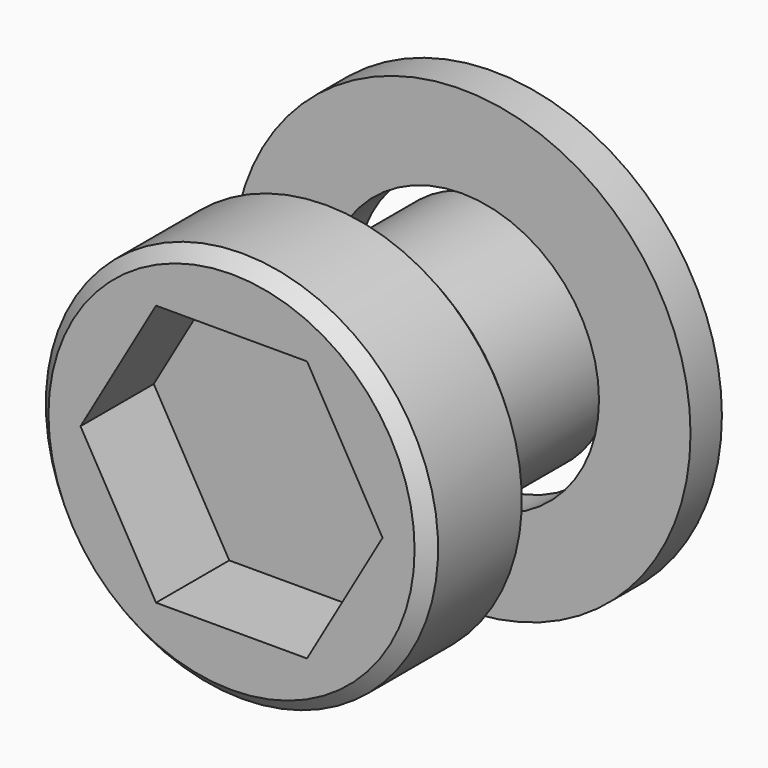
from build123d import *

# Parameters (mm, degrees)
F0_R     = 1.75
F0_R_2   = 1.05
F1_DEPTH = 0.3
F5_DEPTH = 0.7
F6_SIZE  = 0.1


with BuildPart() as f1:
    # F0 (on Front) → F1 (new body)
    with BuildSketch(Plane.XZ):
        Circle(F0_R)
        Circle(F0_R_2, mode=Mode.SUBTRACT)
    extrude(amount=F1_DEPTH)


with BuildPart() as f3:
    # F2 (on Right) → F3 (revolve)
    with BuildSketch(Plane.YZ):
        Polygon((0, -0.9), (0, 0), (-2.5, 0), (-2.5, -1.5), (-1.5, -1.5), (-1.5, -0.9), align=None)
    revolve(axis=Axis((0, -0.931411, 0), (0, 1, 0)))

    # F4 (on face) → F5 (cut)
    with BuildSketch(Plane.XZ.offset(2.5)):
        Polygon((1.154701, 0), (0.57735, 1), (-0.57735, 1), (-1.154701, 0), (-0.57735, -1), (0.57735, -1), align=None)
    extrude(amount=-F5_DEPTH, mode=Mode.SUBTRACT)

    # F6
    f6_edges = [f3.edges().sort_by_distance(p)[0] for p in [
        (0, -2.5, 1.5),
        (0, -1.5, 1.5),
    ]]
    chamfer(f6_edges, length=F6_SIZE)


solid = Compound([f1.part, f3.part])
